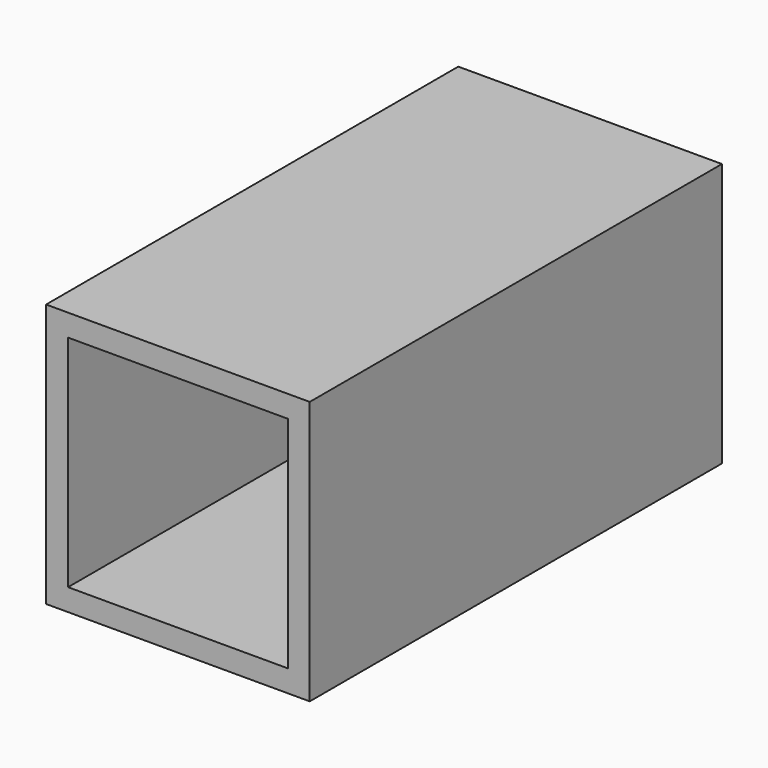
from build123d import *

# Parameters (mm, degrees)
F0_W     = 50.8
F0_H     = 50.8
F1_DEPTH = 119.126


with BuildPart() as f1:
    # F0 (on Front) → F1 (new body)
    with BuildSketch(Plane.XZ):
        Polygon((50.8, 55.88), (0, 55.88), (-5.08, 55.88), (-5.08, 50.8), (-5.08, 0), (-5.08, -5.08), (0, -5.08), (50.8, -5.08), (55.88, -5.08), (55.88, 0), (55.88, 50.8), (55.88, 55.88), align=None)
        with Locations((25.4, 25.4)):
            Rectangle(F0_W, F0_H, mode=Mode.SUBTRACT)
    extrude(amount=F1_DEPTH)


solid = f1.part
